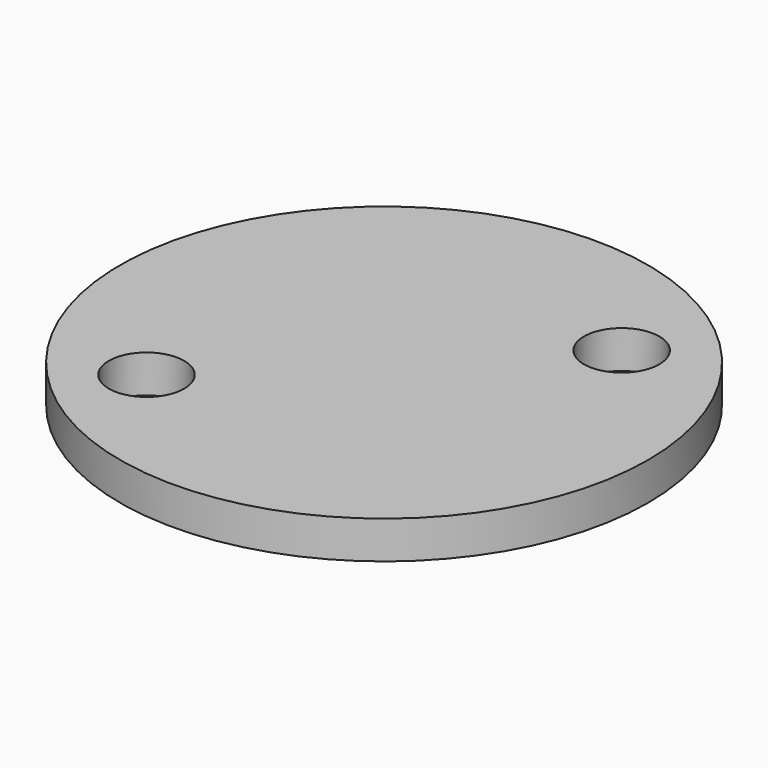
from build123d import *

# Parameters (mm, degrees)
CYLINDER1278_R     = 1
CYLINDER1278_DEPTH = 20
CYLINDER1291_R     = 1
CYLINDER1291_DEPTH = 20
CYLINDER1284_R     = 7
CYLINDER1284_DEPTH = 1


with BuildPart() as obj1:
    # Cylinder1278 → Cylinder1278 (new body)
    with BuildSketch(Plane(origin=(-3.5, -3.5, 0), x_dir=(1, 0, 0), z_dir=(0, 0, 1))):
        Circle(CYLINDER1278_R)
    extrude(amount=CYLINDER1278_DEPTH)


with BuildPart() as compound692:
    # Cylinder1291 → Cylinder1291 (new body)
    with BuildSketch(Plane(origin=(3.5, 3.5, 0), x_dir=(1, 0, 0), z_dir=(0, 0, 1))):
        Circle(CYLINDER1291_R)
    extrude(amount=CYLINDER1291_DEPTH)

    # Compound692: union obj1
    add(obj1.part)


with BuildPart() as cut488:
    # Cylinder1284 → Cylinder1284 (new body)
    with BuildSketch(Plane.XY.offset(10)):
        Circle(CYLINDER1284_R)
    extrude(amount=CYLINDER1284_DEPTH)

    # Cut488: cut Compound692
    add(compound692.part, mode=Mode.SUBTRACT)


solid = cut488.part
